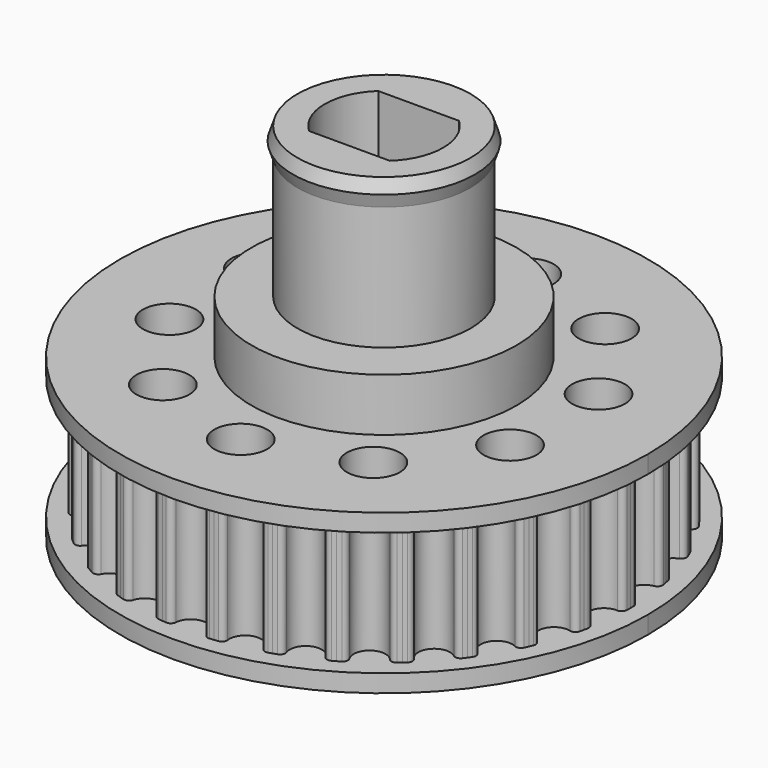
from build123d import *

# Parameters (mm, degrees)
F3_R     = 1.5
F3_R_2   = 7.5
F3_R_3   = 4.9
F4_DEPTH = 8
F5_DEPTH = 1
F7_DEPTH = 12
F8_DEPTH = 20.5


with BuildPart() as f4:
    # F3 (on Top) → F4 (new body)
    with BuildSketch(Plane.XY):
        with BuildLine():
            ThreePointArc((0.8978640127, 13.6109419175), (0.6140958725, 13.0149704588), (0, 12.7729113827))
            ThreePointArc((0, 12.7729113827), (-0.6140958725, 13.0149704588), (-0.8978640127, 13.6109419175))
            ThreePointArc((-0.8978640127, 13.6109419175), (-1.0022824589, 13.8183771987), (-1.2234767211, 13.8891282138))
            ThreePointArc((-1.2234767211, 13.8891282138), (-1.340501529, 13.8783224302), (-1.4574311003, 13.8665306553))
            ThreePointArc((-1.4574311003, 13.8665306553), (-1.5742571279, 13.8537537268), (-1.6909713116, 13.8399925524))
            ThreePointArc((-1.6909713116, 13.8399925524), (-1.8926219853, 13.7247987436), (-1.9516304178, 13.5001866054))
            ThreePointArc((-1.9516304178, 13.5001866054), (-2.6556376022, 12.4937926234), (-3.7081174775, 13.1268337553))
            ThreePointArc((-3.7081174775, 13.1268337553), (-3.8533823502, 13.3080262622), (-4.0844529502, 13.3312423249))
            ThreePointArc((-4.0844529502, 13.3312423249), (-4.1966738365, 13.2963418479), (-4.3085965683, 13.2604967267))
            ThreePointArc((-4.3085965683, 13.2604967267), (-4.4202131941, 13.2237095078), (-4.5315157839, 13.1859828048))
            ThreePointArc((-4.5315157839, 13.1859828048), (-4.7048097669, 13.0313807246), (-4.7158292342, 12.7994083575))
            ThreePointArc((-4.7158292342, 12.7994083575), (-5.1952110981, 11.6686351746), (-6.3563084151, 12.0690199685))
            ThreePointArc((-6.3563084151, 12.0690199685), (-6.5360709422, 12.2160507191), (-6.766918986, 12.1907171759))
            ThreePointArc((-6.766918986, 12.1907171759), (-6.8694313595, 12.1332473239), (-6.9714556914, 12.0749154602))
            ThreePointArc((-6.9714556914, 12.0749154602), (-7.0729847331, 12.0157257289), (-7.1740112717, 11.9556823352))
            ThreePointArc((-7.1740112717, 11.9556823352), (-7.3113747856, 11.7684288364), (-7.273923684, 11.539234546))
            ThreePointArc((-7.273923684, 11.539234546), (-7.5077289396, 10.3335023763), (-8.7266981739, 10.4837320955))
            ThreePointArc((-8.7266981739, 10.4837320955), (-8.9331018704, 10.5901751404), (-9.1536381909, 10.5173991889))
            ThreePointArc((-9.1536381909, 10.5173991889), (-9.241961769, 10.4398716701), (-9.3296287479, 10.3616024462))
            ThreePointArc((-9.3296287479, 10.3616024462), (-9.4166328994, 10.2825970778), (-9.5029680422, 10.2028611779))
            ThreePointArc((-9.5029680422, 10.2028611779), (-9.5983976422, 9.9911401369), (-9.5141127646, 9.7747408134))
            ThreePointArc((-9.5141127646, 9.7747408134), (-9.4921230004, 8.5467459385), (-10.7156893472, 8.4402548233))
            ThreePointArc((-10.7156893472, 8.4402548233), (-10.9397133812, 8.5014580908), (-11.1402994827, 8.3844203891))
            ThreePointArc((-11.1402994827, 8.3844203891), (-11.2105741012, 8.2902235282), (-11.2800522597, 8.1954376848))
            ThreePointArc((-11.2800522597, 8.1954376848), (-11.348729022, 8.100069593), (-11.416599509, 8.0041260283))
            ThreePointArc((-11.416599509, 8.0041260283), (-11.4659244637, 7.7771906705), (-11.3384894636, 7.5830440029))
            ThreePointArc((-11.3384894636, 7.5830440029), (-11.0616657377, 6.3864556914), (-12.2363534764, 6.0278979146))
            ThreePointArc((-12.2363534764, 6.0278979146), (-12.4682069226, 6.0411865282), (-12.6400762301, 5.8850021855))
            ThreePointArc((-12.6400762301, 5.8850021855), (-12.689230551, 5.7782528372), (-12.73748336, 5.6710929705))
            ThreePointArc((-12.73748336, 5.6710929705), (-12.7848312291, 5.5635301986), (-12.8312707944, 5.4555721632))
            ThreePointArc((-12.8312707944, 5.4555721632), (-12.8323353665, 5.2233406528), (-12.667319765, 5.059931782))
            ThreePointArc((-12.667319765, 5.059931782), (-12.1477606026, 3.9470466849), (-13.2222302422, 3.3520929419))
            ThreePointArc((-13.2222302422, 3.3520929419), (-13.4517799924, 3.3168861254), (-13.5874209924, 3.128381147))
            ThreePointArc((-13.5874209924, 3.128381147), (-13.613306736, 3.0137447701), (-13.6382253163, 2.8988942805))
            ThreePointArc((-13.6382253163, 2.8988942805), (-13.662174963, 2.7838378377), (-13.6851539747, 2.6685836159))
            ThreePointArc((-13.6851539747, 2.6685836159), (-13.6379116374, 2.4412055842), (-13.4425274081, 2.315676262))
            ThreePointArc((-13.4425274081, 2.315676262), (-12.7029400377, 1.3351327983), (-13.6302320991, 0.5297854225))
            ThreePointArc((-13.6302320991, 0.5297854225), (-13.8474457277, 0.4476218827), (-13.9409302577, 0.2350348407))
            ThreePointArc((-13.9409302577, 0.2350348407), (-13.9424160927, 0.117521595), (-13.9429113827, 0))
            ThreePointArc((-13.9429113827, 0), (-13.9424160927, -0.117521595), (-13.9409302577, -0.2350348407))
            ThreePointArc((-13.9409302577, -0.2350348407), (-13.8474457277, -0.4476218827), (-13.6302320991, -0.5297854225))
            ThreePointArc((-13.6302320991, -0.5297854225), (-12.7029400377, -1.3351327983), (-13.4425274081, -2.315676262))
            ThreePointArc((-13.4425274081, -2.315676262), (-13.6379116374, -2.4412055842), (-13.6851539747, -2.6685836159))
            ThreePointArc((-13.6851539747, -2.6685836159), (-13.662174963, -2.7838378377), (-13.6382253163, -2.8988942805))
            ThreePointArc((-13.6382253163, -2.8988942805), (-13.613306736, -3.0137447701), (-13.5874209924, -3.128381147))
            ThreePointArc((-13.5874209924, -3.128381147), (-13.4517799924, -3.3168861254), (-13.2222302422, -3.3520929419))
            ThreePointArc((-13.2222302422, -3.3520929419), (-12.1477606026, -3.9470466849), (-12.667319765, -5.059931782))
            ThreePointArc((-12.667319765, -5.059931782), (-12.8323353665, -5.2233406528), (-12.8312707944, -5.4555721632))
            ThreePointArc((-12.8312707944, -5.4555721632), (-12.7848312291, -5.5635301986), (-12.73748336, -5.6710929705))
            ThreePointArc((-12.73748336, -5.6710929705), (-12.689230551, -5.7782528372), (-12.6400762301, -5.8850021855))
            ThreePointArc((-12.6400762301, -5.8850021855), (-12.4682069226, -6.0411865282), (-12.2363534764, -6.0278979146))
            ThreePointArc((-12.2363534764, -6.0278979146), (-11.0616657377, -6.3864556914), (-11.3384894636, -7.5830440029))
            ThreePointArc((-11.3384894636, -7.5830440029), (-11.4659244637, -7.7771906705), (-11.416599509, -8.0041260283))
            ThreePointArc((-11.416599509, -8.0041260283), (-11.348729022, -8.100069593), (-11.2800522597, -8.1954376848))
            ThreePointArc((-11.2800522597, -8.1954376848), (-11.2105741012, -8.2902235282), (-11.1402994827, -8.3844203891))
            ThreePointArc((-11.1402994827, -8.3844203891), (-10.9397133812, -8.5014580908), (-10.7156893472, -8.4402548233))
            ThreePointArc((-10.7156893472, -8.4402548233), (-9.4921230004, -8.5467459385), (-9.5141127646, -9.7747408134))
            ThreePointArc((-9.5141127646, -9.7747408134), (-9.5983976422, -9.9911401369), (-9.5029680422, -10.2028611779))
            ThreePointArc((-9.5029680422, -10.2028611779), (-9.4166328994, -10.2825970778), (-9.3296287479, -10.3616024462))
            ThreePointArc((-9.3296287479, -10.3616024462), (-9.241961769, -10.4398716701), (-9.1536381909, -10.5173991889))
            ThreePointArc((-9.1536381909, -10.5173991889), (-8.9331018704, -10.5901751404), (-8.7266981739, -10.4837320955))
            ThreePointArc((-8.7266981739, -10.4837320955), (-7.5077289396, -10.3335023763), (-7.273923684, -11.539234546))
            ThreePointArc((-7.273923684, -11.539234546), (-7.3113747856, -11.7684288364), (-7.1740112717, -11.9556823352))
            ThreePointArc((-7.1740112717, -11.9556823352), (-7.0729847331, -12.0157257289), (-6.9714556914, -12.0749154602))
            ThreePointArc((-6.9714556914, -12.0749154602), (-6.8694313595, -12.1332473239), (-6.766918986, -12.1907171759))
            ThreePointArc((-6.766918986, -12.1907171759), (-6.5360709422, -12.2160507191), (-6.3563084151, -12.0690199685))
            ThreePointArc((-6.3563084151, -12.0690199685), (-5.1952110981, -11.6686351746), (-4.7158292342, -12.7994083575))
            ThreePointArc((-4.7158292342, -12.7994083575), (-4.7048097669, -13.0313807246), (-4.5315157839, -13.1859828048))
            ThreePointArc((-4.5315157839, -13.1859828048), (-4.4202131941, -13.2237095078), (-4.3085965683, -13.2604967267))
            ThreePointArc((-4.3085965683, -13.2604967267), (-4.1966738365, -13.2963418479), (-4.0844529502, -13.3312423249))
            ThreePointArc((-4.0844529502, -13.3312423249), (-3.8533823502, -13.3080262622), (-3.7081174775, -13.1268337553))
            ThreePointArc((-3.7081174775, -13.1268337553), (-2.6556376022, -12.4937926234), (-1.9516304178, -13.5001866054))
            ThreePointArc((-1.9516304178, -13.5001866054), (-1.8926219853, -13.7247987436), (-1.6909713116, -13.8399925524))
            ThreePointArc((-1.6909713116, -13.8399925524), (-1.5742571279, -13.8537537268), (-1.4574311003, -13.8665306553))
            ThreePointArc((-1.4574311003, -13.8665306553), (-1.340501529, -13.8783224302), (-1.2234767211, -13.8891282138))
            ThreePointArc((-1.2234767211, -13.8891282138), (-1.0022824589, -13.8183771987), (-0.8978640127, -13.6109419175))
            ThreePointArc((-0.8978640127, -13.6109419175), (0, -12.7729113827), (0.8978640127, -13.6109419175))
            ThreePointArc((0.8978640127, -13.6109419175), (1.0022824589, -13.8183771987), (1.2234767211, -13.8891282138))
            ThreePointArc((1.2234767211, -13.8891282138), (1.340501529, -13.8783224302), (1.4574311003, -13.8665306553))
            ThreePointArc((1.4574311003, -13.8665306553), (1.5742571279, -13.8537537268), (1.6909713116, -13.8399925524))
            ThreePointArc((1.6909713116, -13.8399925524), (1.8926219853, -13.7247987436), (1.9516304178, -13.5001866054))
            ThreePointArc((1.9516304178, -13.5001866054), (2.6556376022, -12.4937926234), (3.7081174775, -13.1268337553))
            ThreePointArc((3.7081174775, -13.1268337553), (3.8533823502, -13.3080262622), (4.0844529502, -13.3312423249))
            ThreePointArc((4.0844529502, -13.3312423249), (4.1966738365, -13.2963418479), (4.3085965683, -13.2604967267))
            ThreePointArc((4.3085965683, -13.2604967267), (4.4202131941, -13.2237095078), (4.5315157839, -13.1859828048))
            ThreePointArc((4.5315157839, -13.1859828048), (4.7048097669, -13.0313807246), (4.7158292342, -12.7994083575))
            ThreePointArc((4.7158292342, -12.7994083575), (5.1952110981, -11.6686351746), (6.3563084151, -12.0690199685))
            ThreePointArc((6.3563084151, -12.0690199685), (6.5360709422, -12.2160507191), (6.766918986, -12.1907171759))
            ThreePointArc((6.766918986, -12.1907171759), (6.8694313595, -12.1332473239), (6.9714556914, -12.0749154602))
            ThreePointArc((6.9714556914, -12.0749154602), (7.0729847331, -12.0157257289), (7.1740112717, -11.9556823352))
            ThreePointArc((7.1740112717, -11.9556823352), (7.3113747856, -11.7684288364), (7.273923684, -11.539234546))
            ThreePointArc((7.273923684, -11.539234546), (7.5077289396, -10.3335023763), (8.7266981739, -10.4837320955))
            ThreePointArc((8.7266981739, -10.4837320955), (8.9331018704, -10.5901751404), (9.1536381909, -10.5173991889))
            ThreePointArc((9.1536381909, -10.5173991889), (9.241961769, -10.4398716701), (9.3296287479, -10.3616024462))
            ThreePointArc((9.3296287479, -10.3616024462), (9.4166328994, -10.2825970778), (9.5029680422, -10.2028611779))
            ThreePointArc((9.5029680422, -10.2028611779), (9.5983976422, -9.9911401369), (9.5141127646, -9.7747408134))
            ThreePointArc((9.5141127646, -9.7747408134), (9.4921230004, -8.5467459385), (10.7156893472, -8.4402548233))
            ThreePointArc((10.7156893472, -8.4402548233), (10.9397133812, -8.5014580908), (11.1402994827, -8.3844203891))
            ThreePointArc((11.1402994827, -8.3844203891), (11.2105741012, -8.2902235282), (11.2800522597, -8.1954376848))
            ThreePointArc((11.2800522597, -8.1954376848), (11.348729022, -8.100069593), (11.416599509, -8.0041260283))
            ThreePointArc((11.416599509, -8.0041260283), (11.4659244637, -7.7771906705), (11.3384894636, -7.5830440029))
            ThreePointArc((11.3384894636, -7.5830440029), (11.0616657377, -6.3864556914), (12.2363534764, -6.0278979146))
            ThreePointArc((12.2363534764, -6.0278979146), (12.4682069226, -6.0411865282), (12.6400762301, -5.8850021855))
            ThreePointArc((12.6400762301, -5.8850021855), (12.689230551, -5.7782528372), (12.73748336, -5.6710929705))
            ThreePointArc((12.73748336, -5.6710929705), (12.7848312291, -5.5635301986), (12.8312707944, -5.4555721632))
            ThreePointArc((12.8312707944, -5.4555721632), (12.8323353665, -5.2233406528), (12.667319765, -5.059931782))
            ThreePointArc((12.667319765, -5.059931782), (12.1477606026, -3.9470466849), (13.2222302422, -3.3520929419))
            ThreePointArc((13.2222302422, -3.3520929419), (13.4517799924, -3.3168861254), (13.5874209924, -3.128381147))
            ThreePointArc((13.5874209924, -3.128381147), (13.613306736, -3.0137447701), (13.6382253163, -2.8988942805))
            ThreePointArc((13.6382253163, -2.8988942805), (13.662174963, -2.7838378377), (13.6851539747, -2.6685836159))
            ThreePointArc((13.6851539747, -2.6685836159), (13.6379116374, -2.4412055842), (13.4425274081, -2.315676262))
            ThreePointArc((13.4425274081, -2.315676262), (12.7029400377, -1.3351327983), (13.6302320991, -0.5297854225))
            ThreePointArc((13.6302320991, -0.5297854225), (13.8474457277, -0.4476218827), (13.9409302577, -0.2350348407))
            ThreePointArc((13.9409302577, -0.2350348407), (13.9424160927, -0.117521595), (13.9429113827, 0))
            ThreePointArc((13.9429113827, 0), (13.9424160927, 0.117521595), (13.9409302577, 0.2350348407))
            ThreePointArc((13.9409302577, 0.2350348407), (13.8474457277, 0.4476218827), (13.6302320991, 0.5297854225))
            ThreePointArc((13.6302320991, 0.5297854225), (12.7029400377, 1.3351327983), (13.4425274081, 2.315676262))
            ThreePointArc((13.4425274081, 2.315676262), (13.6379116374, 2.4412055842), (13.6851539747, 2.6685836159))
            ThreePointArc((13.6851539747, 2.6685836159), (13.662174963, 2.7838378377), (13.6382253163, 2.8988942805))
            ThreePointArc((13.6382253163, 2.8988942805), (13.613306736, 3.0137447701), (13.5874209924, 3.128381147))
            ThreePointArc((13.5874209924, 3.128381147), (13.4517799924, 3.3168861254), (13.2222302422, 3.3520929419))
            ThreePointArc((13.2222302422, 3.3520929419), (12.1477606026, 3.9470466849), (12.667319765, 5.059931782))
            ThreePointArc((12.667319765, 5.059931782), (12.8323353665, 5.2233406528), (12.8312707944, 5.4555721632))
            ThreePointArc((12.8312707944, 5.4555721632), (12.7848312291, 5.5635301986), (12.73748336, 5.6710929705))
            ThreePointArc((12.73748336, 5.6710929705), (12.689230551, 5.7782528372), (12.6400762301, 5.8850021855))
            ThreePointArc((12.6400762301, 5.8850021855), (12.4682069226, 6.0411865282), (12.2363534764, 6.0278979146))
            ThreePointArc((12.2363534764, 6.0278979146), (11.0616657377, 6.3864556914), (11.3384894636, 7.5830440029))
            ThreePointArc((11.3384894636, 7.5830440029), (11.4659244637, 7.7771906705), (11.416599509, 8.0041260283))
            ThreePointArc((11.416599509, 8.0041260283), (11.348729022, 8.100069593), (11.2800522597, 8.1954376848))
            ThreePointArc((11.2800522597, 8.1954376848), (11.2105741012, 8.2902235282), (11.1402994827, 8.3844203891))
            ThreePointArc((11.1402994827, 8.3844203891), (10.9397133812, 8.5014580908), (10.7156893472, 8.4402548233))
            ThreePointArc((10.7156893472, 8.4402548233), (9.4921230004, 8.5467459385), (9.5141127646, 9.7747408134))
            ThreePointArc((9.5141127646, 9.7747408134), (9.5983976422, 9.9911401369), (9.5029680422, 10.2028611779))
            ThreePointArc((9.5029680422, 10.2028611779), (9.4166328994, 10.2825970778), (9.3296287479, 10.3616024462))
            ThreePointArc((9.3296287479, 10.3616024462), (9.241961769, 10.4398716701), (9.1536381909, 10.5173991889))
            ThreePointArc((9.1536381909, 10.5173991889), (8.9331018704, 10.5901751404), (8.7266981739, 10.4837320955))
            ThreePointArc((8.7266981739, 10.4837320955), (7.5077289396, 10.3335023763), (7.273923684, 11.539234546))
            ThreePointArc((7.273923684, 11.539234546), (7.3113747856, 11.7684288364), (7.1740112717, 11.9556823352))
            ThreePointArc((7.1740112717, 11.9556823352), (7.0729847331, 12.0157257289), (6.9714556914, 12.0749154602))
            ThreePointArc((6.9714556914, 12.0749154602), (6.8694313595, 12.1332473239), (6.766918986, 12.1907171759))
            ThreePointArc((6.766918986, 12.1907171759), (6.5360709422, 12.2160507191), (6.3563084151, 12.0690199685))
            ThreePointArc((6.3563084151, 12.0690199685), (5.1952110981, 11.6686351746), (4.7158292342, 12.7994083575))
            ThreePointArc((4.7158292342, 12.7994083575), (4.7048097669, 13.0313807246), (4.5315157839, 13.1859828048))
            ThreePointArc((4.5315157839, 13.1859828048), (4.4202131941, 13.2237095078), (4.3085965683, 13.2604967267))
            ThreePointArc((4.3085965683, 13.2604967267), (4.1966738365, 13.2963418479), (4.0844529502, 13.3312423249))
            ThreePointArc((4.0844529502, 13.3312423249), (3.8533823502, 13.3080262622), (3.7081174775, 13.1268337553))
            ThreePointArc((3.7081174775, 13.1268337553), (2.6556376022, 12.4937926234), (1.9516304178, 13.5001866054))
            ThreePointArc((1.9516304178, 13.5001866054), (1.8926219853, 13.7247987436), (1.6909713116, 13.8399925524))
            ThreePointArc((1.6909713116, 13.8399925524), (1.5742571279, 13.8537537268), (1.4574311003, 13.8665306553))
            ThreePointArc((1.4574311003, 13.8665306553), (1.340501529, 13.8783224302), (1.2234767211, 13.8891282138))
            ThreePointArc((1.2234767211, 13.8891282138), (1.0022824589, 13.8183771987), (0.8978640127, 13.6109419175))
        make_face()
        with Locations((-5.9580591659, -8.200564917)):
            Circle(F3_R, mode=Mode.SUBTRACT)
        with Locations((-9.6403422374, -3.1323370714)):
            Circle(F3_R, mode=Mode.SUBTRACT)
        with Locations((0, -10.1364556914)):
            Circle(F3_R, mode=Mode.SUBTRACT)
        with Locations((5.9580591659, -8.200564917)):
            Circle(F3_R, mode=Mode.SUBTRACT)
        with Locations((9.6403422374, -3.1323370714)):
            Circle(F3_R, mode=Mode.SUBTRACT)
        with Locations((-9.6403422374, 3.1323370714)):
            Circle(F3_R, mode=Mode.SUBTRACT)
        with Locations((-5.9580591659, 8.200564917)):
            Circle(F3_R, mode=Mode.SUBTRACT)
        Circle(F3_R_2, mode=Mode.SUBTRACT)
        with Locations((9.6403422374, 3.1323370714)):
            Circle(F3_R, mode=Mode.SUBTRACT)
        with Locations((0, 10.1364556914)):
            Circle(F3_R, mode=Mode.SUBTRACT)
        with Locations((5.9580591659, 8.200564917)):
            Circle(F3_R, mode=Mode.SUBTRACT)
        Circle(F3_R_2)
        Circle(F3_R_3, mode=Mode.SUBTRACT)
        Circle(F3_R_3)
        with BuildLine():
            ThreePointArc((-2.2847319318, -2.45), (-3.35, 0), (-2.2847319318, 2.45))
            Line((-2.2847319318, 2.45), (2.2847319318, 2.45))
            ThreePointArc((2.2847319318, 2.45), (3.35, 0), (2.2847319318, -2.45))
            Line((2.2847319318, -2.45), (-2.2847319318, -2.45))
        make_face(mode=Mode.SUBTRACT)
    extrude(amount=F4_DEPTH)



with BuildPart() as f5:
    # F3 (on Top) → F5 (new body)
    with BuildSketch(Plane.XY):
        with BuildLine():
            ThreePointArc((0, 14.9429113827), (-10.5662339694, -10.5662339694), (14.9429113827, 0))
            ThreePointArc((14.9429113827, 0), (10.5662339694, 10.5662339694), (0, 14.9429113827))
        make_face()
        with BuildLine():
            ThreePointArc((-0.8978640127, 13.6109419175), (-0.6140958725, 13.0149704588), (0, 12.7729113827))
            ThreePointArc((0, 12.7729113827), (0.6140958725, 13.0149704588), (0.8978640127, 13.6109419175))
            ThreePointArc((0.8978640127, 13.6109419175), (1.0022824589, 13.8183771987), (1.2234767211, 13.8891282138))
            ThreePointArc((1.2234767211, 13.8891282138), (1.340501529, 13.8783224302), (1.4574311003, 13.8665306553))
            ThreePointArc((1.4574311003, 13.8665306553), (1.5742571279, 13.8537537268), (1.6909713116, 13.8399925524))
            ThreePointArc((1.6909713116, 13.8399925524), (1.8926219853, 13.7247987436), (1.9516304178, 13.5001866054))
            ThreePointArc((1.9516304178, 13.5001866054), (2.6556376022, 12.4937926234), (3.7081174775, 13.1268337553))
            ThreePointArc((3.7081174775, 13.1268337553), (3.8533823502, 13.3080262622), (4.0844529502, 13.3312423249))
            ThreePointArc((4.0844529502, 13.3312423249), (4.1966738365, 13.2963418479), (4.3085965683, 13.2604967267))
            ThreePointArc((4.3085965683, 13.2604967267), (4.4202131941, 13.2237095078), (4.5315157839, 13.1859828048))
            ThreePointArc((4.5315157839, 13.1859828048), (4.7048097669, 13.0313807246), (4.7158292342, 12.7994083575))
            ThreePointArc((4.7158292342, 12.7994083575), (5.1952110981, 11.6686351746), (6.3563084151, 12.0690199685))
            ThreePointArc((6.3563084151, 12.0690199685), (6.5360709422, 12.2160507191), (6.766918986, 12.1907171759))
            ThreePointArc((6.766918986, 12.1907171759), (6.8694313595, 12.1332473239), (6.9714556914, 12.0749154602))
            ThreePointArc((6.9714556914, 12.0749154602), (7.0729847331, 12.0157257289), (7.1740112717, 11.9556823352))
            ThreePointArc((7.1740112717, 11.9556823352), (7.3113747856, 11.7684288364), (7.273923684, 11.539234546))
            ThreePointArc((7.273923684, 11.539234546), (7.5077289396, 10.3335023763), (8.7266981739, 10.4837320955))
            ThreePointArc((8.7266981739, 10.4837320955), (8.9331018704, 10.5901751404), (9.1536381909, 10.5173991889))
            ThreePointArc((9.1536381909, 10.5173991889), (9.241961769, 10.4398716701), (9.3296287479, 10.3616024462))
            ThreePointArc((9.3296287479, 10.3616024462), (9.4166328994, 10.2825970778), (9.5029680422, 10.2028611779))
            ThreePointArc((9.5029680422, 10.2028611779), (9.5983976422, 9.9911401369), (9.5141127646, 9.7747408134))
            ThreePointArc((9.5141127646, 9.7747408134), (9.4921230004, 8.5467459385), (10.7156893472, 8.4402548233))
            ThreePointArc((10.7156893472, 8.4402548233), (10.9397133812, 8.5014580908), (11.1402994827, 8.3844203891))
            ThreePointArc((11.1402994827, 8.3844203891), (11.2105741012, 8.2902235282), (11.2800522597, 8.1954376848))
            ThreePointArc((11.2800522597, 8.1954376848), (11.348729022, 8.100069593), (11.416599509, 8.0041260283))
            ThreePointArc((11.416599509, 8.0041260283), (11.4659244637, 7.7771906705), (11.3384894636, 7.5830440029))
            ThreePointArc((11.3384894636, 7.5830440029), (11.0616657377, 6.3864556914), (12.2363534764, 6.0278979146))
            ThreePointArc((12.2363534764, 6.0278979146), (12.4682069226, 6.0411865282), (12.6400762301, 5.8850021855))
            ThreePointArc((12.6400762301, 5.8850021855), (12.689230551, 5.7782528372), (12.73748336, 5.6710929705))
            ThreePointArc((12.73748336, 5.6710929705), (12.7848312291, 5.5635301986), (12.8312707944, 5.4555721632))
            ThreePointArc((12.8312707944, 5.4555721632), (12.8323353665, 5.2233406528), (12.667319765, 5.059931782))
            ThreePointArc((12.667319765, 5.059931782), (12.1477606026, 3.9470466849), (13.2222302422, 3.3520929419))
            ThreePointArc((13.2222302422, 3.3520929419), (13.4517799924, 3.3168861254), (13.5874209924, 3.128381147))
            ThreePointArc((13.5874209924, 3.128381147), (13.613306736, 3.0137447701), (13.6382253163, 2.8988942805))
            ThreePointArc((13.6382253163, 2.8988942805), (13.662174963, 2.7838378377), (13.6851539747, 2.6685836159))
            ThreePointArc((13.6851539747, 2.6685836159), (13.6379116374, 2.4412055842), (13.4425274081, 2.315676262))
            ThreePointArc((13.4425274081, 2.315676262), (12.7029400377, 1.3351327983), (13.6302320991, 0.5297854225))
            ThreePointArc((13.6302320991, 0.5297854225), (13.8474457277, 0.4476218827), (13.9409302577, 0.2350348407))
            ThreePointArc((13.9409302577, 0.2350348407), (13.9424160927, 0.117521595), (13.9429113827, 0))
            ThreePointArc((13.9429113827, 0), (13.9424160927, -0.117521595), (13.9409302577, -0.2350348407))
            ThreePointArc((13.9409302577, -0.2350348407), (13.8474457277, -0.4476218827), (13.6302320991, -0.5297854225))
            ThreePointArc((13.6302320991, -0.5297854225), (12.7029400377, -1.3351327983), (13.4425274081, -2.315676262))
            ThreePointArc((13.4425274081, -2.315676262), (13.6379116374, -2.4412055842), (13.6851539747, -2.6685836159))
            ThreePointArc((13.6851539747, -2.6685836159), (13.662174963, -2.7838378377), (13.6382253163, -2.8988942805))
            ThreePointArc((13.6382253163, -2.8988942805), (13.613306736, -3.0137447701), (13.5874209924, -3.128381147))
            ThreePointArc((13.5874209924, -3.128381147), (13.4517799924, -3.3168861254), (13.2222302422, -3.3520929419))
            ThreePointArc((13.2222302422, -3.3520929419), (12.1477606026, -3.9470466849), (12.667319765, -5.059931782))
            ThreePointArc((12.667319765, -5.059931782), (12.8323353665, -5.2233406528), (12.8312707944, -5.4555721632))
            ThreePointArc((12.8312707944, -5.4555721632), (12.7848312291, -5.5635301986), (12.73748336, -5.6710929705))
            ThreePointArc((12.73748336, -5.6710929705), (12.689230551, -5.7782528372), (12.6400762301, -5.8850021855))
            ThreePointArc((12.6400762301, -5.8850021855), (12.4682069226, -6.0411865282), (12.2363534764, -6.0278979146))
            ThreePointArc((12.2363534764, -6.0278979146), (11.0616657377, -6.3864556914), (11.3384894636, -7.5830440029))
            ThreePointArc((11.3384894636, -7.5830440029), (11.4659244637, -7.7771906705), (11.416599509, -8.0041260283))
            ThreePointArc((11.416599509, -8.0041260283), (11.348729022, -8.100069593), (11.2800522597, -8.1954376848))
            ThreePointArc((11.2800522597, -8.1954376848), (11.2105741012, -8.2902235282), (11.1402994827, -8.3844203891))
            ThreePointArc((11.1402994827, -8.3844203891), (10.9397133812, -8.5014580908), (10.7156893472, -8.4402548233))
            ThreePointArc((10.7156893472, -8.4402548233), (9.4921230004, -8.5467459385), (9.5141127646, -9.7747408134))
            ThreePointArc((9.5141127646, -9.7747408134), (9.5983976422, -9.9911401369), (9.5029680422, -10.2028611779))
            ThreePointArc((9.5029680422, -10.2028611779), (9.4166328994, -10.2825970778), (9.3296287479, -10.3616024462))
            ThreePointArc((9.3296287479, -10.3616024462), (9.241961769, -10.4398716701), (9.1536381909, -10.5173991889))
            ThreePointArc((9.1536381909, -10.5173991889), (8.9331018704, -10.5901751404), (8.7266981739, -10.4837320955))
            ThreePointArc((8.7266981739, -10.4837320955), (7.5077289396, -10.3335023763), (7.273923684, -11.539234546))
            ThreePointArc((7.273923684, -11.539234546), (7.3113747856, -11.7684288364), (7.1740112717, -11.9556823352))
            ThreePointArc((7.1740112717, -11.9556823352), (7.0729847331, -12.0157257289), (6.9714556914, -12.0749154602))
            ThreePointArc((6.9714556914, -12.0749154602), (6.8694313595, -12.1332473239), (6.766918986, -12.1907171759))
            ThreePointArc((6.766918986, -12.1907171759), (6.5360709422, -12.2160507191), (6.3563084151, -12.0690199685))
            ThreePointArc((6.3563084151, -12.0690199685), (5.1952110981, -11.6686351746), (4.7158292342, -12.7994083575))
            ThreePointArc((4.7158292342, -12.7994083575), (4.7048097669, -13.0313807246), (4.5315157839, -13.1859828048))
            ThreePointArc((4.5315157839, -13.1859828048), (4.4202131941, -13.2237095078), (4.3085965683, -13.2604967267))
            ThreePointArc((4.3085965683, -13.2604967267), (4.1966738365, -13.2963418479), (4.0844529502, -13.3312423249))
            ThreePointArc((4.0844529502, -13.3312423249), (3.8533823502, -13.3080262622), (3.7081174775, -13.1268337553))
            ThreePointArc((3.7081174775, -13.1268337553), (2.6556376022, -12.4937926234), (1.9516304178, -13.5001866054))
            ThreePointArc((1.9516304178, -13.5001866054), (1.8926219853, -13.7247987436), (1.6909713116, -13.8399925524))
            ThreePointArc((1.6909713116, -13.8399925524), (1.5742571279, -13.8537537268), (1.4574311003, -13.8665306553))
            ThreePointArc((1.4574311003, -13.8665306553), (1.340501529, -13.8783224302), (1.2234767211, -13.8891282138))
            ThreePointArc((1.2234767211, -13.8891282138), (1.0022824589, -13.8183771987), (0.8978640127, -13.6109419175))
            ThreePointArc((0.8978640127, -13.6109419175), (0, -12.7729113827), (-0.8978640127, -13.6109419175))
            ThreePointArc((-0.8978640127, -13.6109419175), (-1.0022824589, -13.8183771987), (-1.2234767211, -13.8891282138))
            ThreePointArc((-1.2234767211, -13.8891282138), (-1.340501529, -13.8783224302), (-1.4574311003, -13.8665306553))
            ThreePointArc((-1.4574311003, -13.8665306553), (-1.5742571279, -13.8537537268), (-1.6909713116, -13.8399925524))
            ThreePointArc((-1.6909713116, -13.8399925524), (-1.8926219853, -13.7247987436), (-1.9516304178, -13.5001866054))
            ThreePointArc((-1.9516304178, -13.5001866054), (-2.6556376022, -12.4937926234), (-3.7081174775, -13.1268337553))
            ThreePointArc((-3.7081174775, -13.1268337553), (-3.8533823502, -13.3080262622), (-4.0844529502, -13.3312423249))
            ThreePointArc((-4.0844529502, -13.3312423249), (-4.1966738365, -13.2963418479), (-4.3085965683, -13.2604967267))
            ThreePointArc((-4.3085965683, -13.2604967267), (-4.4202131941, -13.2237095078), (-4.5315157839, -13.1859828048))
            ThreePointArc((-4.5315157839, -13.1859828048), (-4.7048097669, -13.0313807246), (-4.7158292342, -12.7994083575))
            ThreePointArc((-4.7158292342, -12.7994083575), (-5.1952110981, -11.6686351746), (-6.3563084151, -12.0690199685))
            ThreePointArc((-6.3563084151, -12.0690199685), (-6.5360709422, -12.2160507191), (-6.766918986, -12.1907171759))
            ThreePointArc((-6.766918986, -12.1907171759), (-6.8694313595, -12.1332473239), (-6.9714556914, -12.0749154602))
            ThreePointArc((-6.9714556914, -12.0749154602), (-7.0729847331, -12.0157257289), (-7.1740112717, -11.9556823352))
            ThreePointArc((-7.1740112717, -11.9556823352), (-7.3113747856, -11.7684288364), (-7.273923684, -11.539234546))
            ThreePointArc((-7.273923684, -11.539234546), (-7.5077289396, -10.3335023763), (-8.7266981739, -10.4837320955))
            ThreePointArc((-8.7266981739, -10.4837320955), (-8.9331018704, -10.5901751404), (-9.1536381909, -10.5173991889))
            ThreePointArc((-9.1536381909, -10.5173991889), (-9.241961769, -10.4398716701), (-9.3296287479, -10.3616024462))
            ThreePointArc((-9.3296287479, -10.3616024462), (-9.4166328994, -10.2825970778), (-9.5029680422, -10.2028611779))
            ThreePointArc((-9.5029680422, -10.2028611779), (-9.5983976422, -9.9911401369), (-9.5141127646, -9.7747408134))
            ThreePointArc((-9.5141127646, -9.7747408134), (-9.4921230004, -8.5467459385), (-10.7156893472, -8.4402548233))
            ThreePointArc((-10.7156893472, -8.4402548233), (-10.9397133812, -8.5014580908), (-11.1402994827, -8.3844203891))
            ThreePointArc((-11.1402994827, -8.3844203891), (-11.2105741012, -8.2902235282), (-11.2800522597, -8.1954376848))
            ThreePointArc((-11.2800522597, -8.1954376848), (-11.348729022, -8.100069593), (-11.416599509, -8.0041260283))
            ThreePointArc((-11.416599509, -8.0041260283), (-11.4659244637, -7.7771906705), (-11.3384894636, -7.5830440029))
            ThreePointArc((-11.3384894636, -7.5830440029), (-11.0616657377, -6.3864556914), (-12.2363534764, -6.0278979146))
            ThreePointArc((-12.2363534764, -6.0278979146), (-12.4682069226, -6.0411865282), (-12.6400762301, -5.8850021855))
            ThreePointArc((-12.6400762301, -5.8850021855), (-12.689230551, -5.7782528372), (-12.73748336, -5.6710929705))
            ThreePointArc((-12.73748336, -5.6710929705), (-12.7848312291, -5.5635301986), (-12.8312707944, -5.4555721632))
            ThreePointArc((-12.8312707944, -5.4555721632), (-12.8323353665, -5.2233406528), (-12.667319765, -5.059931782))
            ThreePointArc((-12.667319765, -5.059931782), (-12.1477606026, -3.9470466849), (-13.2222302422, -3.3520929419))
            ThreePointArc((-13.2222302422, -3.3520929419), (-13.4517799924, -3.3168861254), (-13.5874209924, -3.128381147))
            ThreePointArc((-13.5874209924, -3.128381147), (-13.613306736, -3.0137447701), (-13.6382253163, -2.8988942805))
            ThreePointArc((-13.6382253163, -2.8988942805), (-13.662174963, -2.7838378377), (-13.6851539747, -2.6685836159))
            ThreePointArc((-13.6851539747, -2.6685836159), (-13.6379116374, -2.4412055842), (-13.4425274081, -2.315676262))
            ThreePointArc((-13.4425274081, -2.315676262), (-12.7029400377, -1.3351327983), (-13.6302320991, -0.5297854225))
            ThreePointArc((-13.6302320991, -0.5297854225), (-13.8474457277, -0.4476218827), (-13.9409302577, -0.2350348407))
            ThreePointArc((-13.9409302577, -0.2350348407), (-13.9424160927, -0.117521595), (-13.9429113827, 0))
            ThreePointArc((-13.9429113827, 0), (-13.9424160927, 0.117521595), (-13.9409302577, 0.2350348407))
            ThreePointArc((-13.9409302577, 0.2350348407), (-13.8474457277, 0.4476218827), (-13.6302320991, 0.5297854225))
            ThreePointArc((-13.6302320991, 0.5297854225), (-12.7029400377, 1.3351327983), (-13.4425274081, 2.315676262))
            ThreePointArc((-13.4425274081, 2.315676262), (-13.6379116374, 2.4412055842), (-13.6851539747, 2.6685836159))
            ThreePointArc((-13.6851539747, 2.6685836159), (-13.662174963, 2.7838378377), (-13.6382253163, 2.8988942805))
            ThreePointArc((-13.6382253163, 2.8988942805), (-13.613306736, 3.0137447701), (-13.5874209924, 3.128381147))
            ThreePointArc((-13.5874209924, 3.128381147), (-13.4517799924, 3.3168861254), (-13.2222302422, 3.3520929419))
            ThreePointArc((-13.2222302422, 3.3520929419), (-12.1477606026, 3.9470466849), (-12.667319765, 5.059931782))
            ThreePointArc((-12.667319765, 5.059931782), (-12.8323353665, 5.2233406528), (-12.8312707944, 5.4555721632))
            ThreePointArc((-12.8312707944, 5.4555721632), (-12.7848312291, 5.5635301986), (-12.73748336, 5.6710929705))
            ThreePointArc((-12.73748336, 5.6710929705), (-12.689230551, 5.7782528372), (-12.6400762301, 5.8850021855))
            ThreePointArc((-12.6400762301, 5.8850021855), (-12.4682069226, 6.0411865282), (-12.2363534764, 6.0278979146))
            ThreePointArc((-12.2363534764, 6.0278979146), (-11.0616657377, 6.3864556914), (-11.3384894636, 7.5830440029))
            ThreePointArc((-11.3384894636, 7.5830440029), (-11.4659244637, 7.7771906705), (-11.416599509, 8.0041260283))
            ThreePointArc((-11.416599509, 8.0041260283), (-11.348729022, 8.100069593), (-11.2800522597, 8.1954376848))
            ThreePointArc((-11.2800522597, 8.1954376848), (-11.2105741012, 8.2902235282), (-11.1402994827, 8.3844203891))
            ThreePointArc((-11.1402994827, 8.3844203891), (-10.9397133812, 8.5014580908), (-10.7156893472, 8.4402548233))
            ThreePointArc((-10.7156893472, 8.4402548233), (-9.4921230004, 8.5467459385), (-9.5141127646, 9.7747408134))
            ThreePointArc((-9.5141127646, 9.7747408134), (-9.5983976422, 9.9911401369), (-9.5029680422, 10.2028611779))
            ThreePointArc((-9.5029680422, 10.2028611779), (-9.4166328994, 10.2825970778), (-9.3296287479, 10.3616024462))
            ThreePointArc((-9.3296287479, 10.3616024462), (-9.241961769, 10.4398716701), (-9.1536381909, 10.5173991889))
            ThreePointArc((-9.1536381909, 10.5173991889), (-8.9331018704, 10.5901751404), (-8.7266981739, 10.4837320955))
            ThreePointArc((-8.7266981739, 10.4837320955), (-7.5077289396, 10.3335023763), (-7.273923684, 11.539234546))
            ThreePointArc((-7.273923684, 11.539234546), (-7.3113747856, 11.7684288364), (-7.1740112717, 11.9556823352))
            ThreePointArc((-7.1740112717, 11.9556823352), (-7.0729847331, 12.0157257289), (-6.9714556914, 12.0749154602))
            ThreePointArc((-6.9714556914, 12.0749154602), (-6.8694313595, 12.1332473239), (-6.766918986, 12.1907171759))
            ThreePointArc((-6.766918986, 12.1907171759), (-6.5360709422, 12.2160507191), (-6.3563084151, 12.0690199685))
            ThreePointArc((-6.3563084151, 12.0690199685), (-5.1952110981, 11.6686351746), (-4.7158292342, 12.7994083575))
            ThreePointArc((-4.7158292342, 12.7994083575), (-4.7048097669, 13.0313807246), (-4.5315157839, 13.1859828048))
            ThreePointArc((-4.5315157839, 13.1859828048), (-4.4202131941, 13.2237095078), (-4.3085965683, 13.2604967267))
            ThreePointArc((-4.3085965683, 13.2604967267), (-4.1966738365, 13.2963418479), (-4.0844529502, 13.3312423249))
            ThreePointArc((-4.0844529502, 13.3312423249), (-3.8533823502, 13.3080262622), (-3.7081174775, 13.1268337553))
            ThreePointArc((-3.7081174775, 13.1268337553), (-2.6556376022, 12.4937926234), (-1.9516304178, 13.5001866054))
            ThreePointArc((-1.9516304178, 13.5001866054), (-1.8926219853, 13.7247987436), (-1.6909713116, 13.8399925524))
            ThreePointArc((-1.6909713116, 13.8399925524), (-1.5742571279, 13.8537537268), (-1.4574311003, 13.8665306553))
            ThreePointArc((-1.4574311003, 13.8665306553), (-1.340501529, 13.8783224302), (-1.2234767211, 13.8891282138))
            ThreePointArc((-1.2234767211, 13.8891282138), (-1.0022824589, 13.8183771987), (-0.8978640127, 13.6109419175))
        make_face(mode=Mode.SUBTRACT)
        with BuildLine():
            ThreePointArc((0.8978640127, 13.6109419175), (0.6140958725, 13.0149704588), (0, 12.7729113827))
            ThreePointArc((0, 12.7729113827), (-0.6140958725, 13.0149704588), (-0.8978640127, 13.6109419175))
            ThreePointArc((-0.8978640127, 13.6109419175), (-1.0022824589, 13.8183771987), (-1.2234767211, 13.8891282138))
            ThreePointArc((-1.2234767211, 13.8891282138), (-1.340501529, 13.8783224302), (-1.4574311003, 13.8665306553))
            ThreePointArc((-1.4574311003, 13.8665306553), (-1.5742571279, 13.8537537268), (-1.6909713116, 13.8399925524))
            ThreePointArc((-1.6909713116, 13.8399925524), (-1.8926219853, 13.7247987436), (-1.9516304178, 13.5001866054))
            ThreePointArc((-1.9516304178, 13.5001866054), (-2.6556376022, 12.4937926234), (-3.7081174775, 13.1268337553))
            ThreePointArc((-3.7081174775, 13.1268337553), (-3.8533823502, 13.3080262622), (-4.0844529502, 13.3312423249))
            ThreePointArc((-4.0844529502, 13.3312423249), (-4.1966738365, 13.2963418479), (-4.3085965683, 13.2604967267))
            ThreePointArc((-4.3085965683, 13.2604967267), (-4.4202131941, 13.2237095078), (-4.5315157839, 13.1859828048))
            ThreePointArc((-4.5315157839, 13.1859828048), (-4.7048097669, 13.0313807246), (-4.7158292342, 12.7994083575))
            ThreePointArc((-4.7158292342, 12.7994083575), (-5.1952110981, 11.6686351746), (-6.3563084151, 12.0690199685))
            ThreePointArc((-6.3563084151, 12.0690199685), (-6.5360709422, 12.2160507191), (-6.766918986, 12.1907171759))
            ThreePointArc((-6.766918986, 12.1907171759), (-6.8694313595, 12.1332473239), (-6.9714556914, 12.0749154602))
            ThreePointArc((-6.9714556914, 12.0749154602), (-7.0729847331, 12.0157257289), (-7.1740112717, 11.9556823352))
            ThreePointArc((-7.1740112717, 11.9556823352), (-7.3113747856, 11.7684288364), (-7.273923684, 11.539234546))
            ThreePointArc((-7.273923684, 11.539234546), (-7.5077289396, 10.3335023763), (-8.7266981739, 10.4837320955))
            ThreePointArc((-8.7266981739, 10.4837320955), (-8.9331018704, 10.5901751404), (-9.1536381909, 10.5173991889))
            ThreePointArc((-9.1536381909, 10.5173991889), (-9.241961769, 10.4398716701), (-9.3296287479, 10.3616024462))
            ThreePointArc((-9.3296287479, 10.3616024462), (-9.4166328994, 10.2825970778), (-9.5029680422, 10.2028611779))
            ThreePointArc((-9.5029680422, 10.2028611779), (-9.5983976422, 9.9911401369), (-9.5141127646, 9.7747408134))
            ThreePointArc((-9.5141127646, 9.7747408134), (-9.4921230004, 8.5467459385), (-10.7156893472, 8.4402548233))
            ThreePointArc((-10.7156893472, 8.4402548233), (-10.9397133812, 8.5014580908), (-11.1402994827, 8.3844203891))
            ThreePointArc((-11.1402994827, 8.3844203891), (-11.2105741012, 8.2902235282), (-11.2800522597, 8.1954376848))
            ThreePointArc((-11.2800522597, 8.1954376848), (-11.348729022, 8.100069593), (-11.416599509, 8.0041260283))
            ThreePointArc((-11.416599509, 8.0041260283), (-11.4659244637, 7.7771906705), (-11.3384894636, 7.5830440029))
            ThreePointArc((-11.3384894636, 7.5830440029), (-11.0616657377, 6.3864556914), (-12.2363534764, 6.0278979146))
            ThreePointArc((-12.2363534764, 6.0278979146), (-12.4682069226, 6.0411865282), (-12.6400762301, 5.8850021855))
            ThreePointArc((-12.6400762301, 5.8850021855), (-12.689230551, 5.7782528372), (-12.73748336, 5.6710929705))
            ThreePointArc((-12.73748336, 5.6710929705), (-12.7848312291, 5.5635301986), (-12.8312707944, 5.4555721632))
            ThreePointArc((-12.8312707944, 5.4555721632), (-12.8323353665, 5.2233406528), (-12.667319765, 5.059931782))
            ThreePointArc((-12.667319765, 5.059931782), (-12.1477606026, 3.9470466849), (-13.2222302422, 3.3520929419))
            ThreePointArc((-13.2222302422, 3.3520929419), (-13.4517799924, 3.3168861254), (-13.5874209924, 3.128381147))
            ThreePointArc((-13.5874209924, 3.128381147), (-13.613306736, 3.0137447701), (-13.6382253163, 2.8988942805))
            ThreePointArc((-13.6382253163, 2.8988942805), (-13.662174963, 2.7838378377), (-13.6851539747, 2.6685836159))
            ThreePointArc((-13.6851539747, 2.6685836159), (-13.6379116374, 2.4412055842), (-13.4425274081, 2.315676262))
            ThreePointArc((-13.4425274081, 2.315676262), (-12.7029400377, 1.3351327983), (-13.6302320991, 0.5297854225))
            ThreePointArc((-13.6302320991, 0.5297854225), (-13.8474457277, 0.4476218827), (-13.9409302577, 0.2350348407))
            ThreePointArc((-13.9409302577, 0.2350348407), (-13.9424160927, 0.117521595), (-13.9429113827, 0))
            ThreePointArc((-13.9429113827, 0), (-13.9424160927, -0.117521595), (-13.9409302577, -0.2350348407))
            ThreePointArc((-13.9409302577, -0.2350348407), (-13.8474457277, -0.4476218827), (-13.6302320991, -0.5297854225))
            ThreePointArc((-13.6302320991, -0.5297854225), (-12.7029400377, -1.3351327983), (-13.4425274081, -2.315676262))
            ThreePointArc((-13.4425274081, -2.315676262), (-13.6379116374, -2.4412055842), (-13.6851539747, -2.6685836159))
            ThreePointArc((-13.6851539747, -2.6685836159), (-13.662174963, -2.7838378377), (-13.6382253163, -2.8988942805))
            ThreePointArc((-13.6382253163, -2.8988942805), (-13.613306736, -3.0137447701), (-13.5874209924, -3.128381147))
            ThreePointArc((-13.5874209924, -3.128381147), (-13.4517799924, -3.3168861254), (-13.2222302422, -3.3520929419))
            ThreePointArc((-13.2222302422, -3.3520929419), (-12.1477606026, -3.9470466849), (-12.667319765, -5.059931782))
            ThreePointArc((-12.667319765, -5.059931782), (-12.8323353665, -5.2233406528), (-12.8312707944, -5.4555721632))
            ThreePointArc((-12.8312707944, -5.4555721632), (-12.7848312291, -5.5635301986), (-12.73748336, -5.6710929705))
            ThreePointArc((-12.73748336, -5.6710929705), (-12.689230551, -5.7782528372), (-12.6400762301, -5.8850021855))
            ThreePointArc((-12.6400762301, -5.8850021855), (-12.4682069226, -6.0411865282), (-12.2363534764, -6.0278979146))
            ThreePointArc((-12.2363534764, -6.0278979146), (-11.0616657377, -6.3864556914), (-11.3384894636, -7.5830440029))
            ThreePointArc((-11.3384894636, -7.5830440029), (-11.4659244637, -7.7771906705), (-11.416599509, -8.0041260283))
            ThreePointArc((-11.416599509, -8.0041260283), (-11.348729022, -8.100069593), (-11.2800522597, -8.1954376848))
            ThreePointArc((-11.2800522597, -8.1954376848), (-11.2105741012, -8.2902235282), (-11.1402994827, -8.3844203891))
            ThreePointArc((-11.1402994827, -8.3844203891), (-10.9397133812, -8.5014580908), (-10.7156893472, -8.4402548233))
            ThreePointArc((-10.7156893472, -8.4402548233), (-9.4921230004, -8.5467459385), (-9.5141127646, -9.7747408134))
            ThreePointArc((-9.5141127646, -9.7747408134), (-9.5983976422, -9.9911401369), (-9.5029680422, -10.2028611779))
            ThreePointArc((-9.5029680422, -10.2028611779), (-9.4166328994, -10.2825970778), (-9.3296287479, -10.3616024462))
            ThreePointArc((-9.3296287479, -10.3616024462), (-9.241961769, -10.4398716701), (-9.1536381909, -10.5173991889))
            ThreePointArc((-9.1536381909, -10.5173991889), (-8.9331018704, -10.5901751404), (-8.7266981739, -10.4837320955))
            ThreePointArc((-8.7266981739, -10.4837320955), (-7.5077289396, -10.3335023763), (-7.273923684, -11.539234546))
            ThreePointArc((-7.273923684, -11.539234546), (-7.3113747856, -11.7684288364), (-7.1740112717, -11.9556823352))
            ThreePointArc((-7.1740112717, -11.9556823352), (-7.0729847331, -12.0157257289), (-6.9714556914, -12.0749154602))
            ThreePointArc((-6.9714556914, -12.0749154602), (-6.8694313595, -12.1332473239), (-6.766918986, -12.1907171759))
            ThreePointArc((-6.766918986, -12.1907171759), (-6.5360709422, -12.2160507191), (-6.3563084151, -12.0690199685))
            ThreePointArc((-6.3563084151, -12.0690199685), (-5.1952110981, -11.6686351746), (-4.7158292342, -12.7994083575))
            ThreePointArc((-4.7158292342, -12.7994083575), (-4.7048097669, -13.0313807246), (-4.5315157839, -13.1859828048))
            ThreePointArc((-4.5315157839, -13.1859828048), (-4.4202131941, -13.2237095078), (-4.3085965683, -13.2604967267))
            ThreePointArc((-4.3085965683, -13.2604967267), (-4.1966738365, -13.2963418479), (-4.0844529502, -13.3312423249))
            ThreePointArc((-4.0844529502, -13.3312423249), (-3.8533823502, -13.3080262622), (-3.7081174775, -13.1268337553))
            ThreePointArc((-3.7081174775, -13.1268337553), (-2.6556376022, -12.4937926234), (-1.9516304178, -13.5001866054))
            ThreePointArc((-1.9516304178, -13.5001866054), (-1.8926219853, -13.7247987436), (-1.6909713116, -13.8399925524))
            ThreePointArc((-1.6909713116, -13.8399925524), (-1.5742571279, -13.8537537268), (-1.4574311003, -13.8665306553))
            ThreePointArc((-1.4574311003, -13.8665306553), (-1.340501529, -13.8783224302), (-1.2234767211, -13.8891282138))
            ThreePointArc((-1.2234767211, -13.8891282138), (-1.0022824589, -13.8183771987), (-0.8978640127, -13.6109419175))
            ThreePointArc((-0.8978640127, -13.6109419175), (0, -12.7729113827), (0.8978640127, -13.6109419175))
            ThreePointArc((0.8978640127, -13.6109419175), (1.0022824589, -13.8183771987), (1.2234767211, -13.8891282138))
            ThreePointArc((1.2234767211, -13.8891282138), (1.340501529, -13.8783224302), (1.4574311003, -13.8665306553))
            ThreePointArc((1.4574311003, -13.8665306553), (1.5742571279, -13.8537537268), (1.6909713116, -13.8399925524))
            ThreePointArc((1.6909713116, -13.8399925524), (1.8926219853, -13.7247987436), (1.9516304178, -13.5001866054))
            ThreePointArc((1.9516304178, -13.5001866054), (2.6556376022, -12.4937926234), (3.7081174775, -13.1268337553))
            ThreePointArc((3.7081174775, -13.1268337553), (3.8533823502, -13.3080262622), (4.0844529502, -13.3312423249))
            ThreePointArc((4.0844529502, -13.3312423249), (4.1966738365, -13.2963418479), (4.3085965683, -13.2604967267))
            ThreePointArc((4.3085965683, -13.2604967267), (4.4202131941, -13.2237095078), (4.5315157839, -13.1859828048))
            ThreePointArc((4.5315157839, -13.1859828048), (4.7048097669, -13.0313807246), (4.7158292342, -12.7994083575))
            ThreePointArc((4.7158292342, -12.7994083575), (5.1952110981, -11.6686351746), (6.3563084151, -12.0690199685))
            ThreePointArc((6.3563084151, -12.0690199685), (6.5360709422, -12.2160507191), (6.766918986, -12.1907171759))
            ThreePointArc((6.766918986, -12.1907171759), (6.8694313595, -12.1332473239), (6.9714556914, -12.0749154602))
            ThreePointArc((6.9714556914, -12.0749154602), (7.0729847331, -12.0157257289), (7.1740112717, -11.9556823352))
            ThreePointArc((7.1740112717, -11.9556823352), (7.3113747856, -11.7684288364), (7.273923684, -11.539234546))
            ThreePointArc((7.273923684, -11.539234546), (7.5077289396, -10.3335023763), (8.7266981739, -10.4837320955))
            ThreePointArc((8.7266981739, -10.4837320955), (8.9331018704, -10.5901751404), (9.1536381909, -10.5173991889))
            ThreePointArc((9.1536381909, -10.5173991889), (9.241961769, -10.4398716701), (9.3296287479, -10.3616024462))
            ThreePointArc((9.3296287479, -10.3616024462), (9.4166328994, -10.2825970778), (9.5029680422, -10.2028611779))
            ThreePointArc((9.5029680422, -10.2028611779), (9.5983976422, -9.9911401369), (9.5141127646, -9.7747408134))
            ThreePointArc((9.5141127646, -9.7747408134), (9.4921230004, -8.5467459385), (10.7156893472, -8.4402548233))
            ThreePointArc((10.7156893472, -8.4402548233), (10.9397133812, -8.5014580908), (11.1402994827, -8.3844203891))
            ThreePointArc((11.1402994827, -8.3844203891), (11.2105741012, -8.2902235282), (11.2800522597, -8.1954376848))
            ThreePointArc((11.2800522597, -8.1954376848), (11.348729022, -8.100069593), (11.416599509, -8.0041260283))
            ThreePointArc((11.416599509, -8.0041260283), (11.4659244637, -7.7771906705), (11.3384894636, -7.5830440029))
            ThreePointArc((11.3384894636, -7.5830440029), (11.0616657377, -6.3864556914), (12.2363534764, -6.0278979146))
            ThreePointArc((12.2363534764, -6.0278979146), (12.4682069226, -6.0411865282), (12.6400762301, -5.8850021855))
            ThreePointArc((12.6400762301, -5.8850021855), (12.689230551, -5.7782528372), (12.73748336, -5.6710929705))
            ThreePointArc((12.73748336, -5.6710929705), (12.7848312291, -5.5635301986), (12.8312707944, -5.4555721632))
            ThreePointArc((12.8312707944, -5.4555721632), (12.8323353665, -5.2233406528), (12.667319765, -5.059931782))
            ThreePointArc((12.667319765, -5.059931782), (12.1477606026, -3.9470466849), (13.2222302422, -3.3520929419))
            ThreePointArc((13.2222302422, -3.3520929419), (13.4517799924, -3.3168861254), (13.5874209924, -3.128381147))
            ThreePointArc((13.5874209924, -3.128381147), (13.613306736, -3.0137447701), (13.6382253163, -2.8988942805))
            ThreePointArc((13.6382253163, -2.8988942805), (13.662174963, -2.7838378377), (13.6851539747, -2.6685836159))
            ThreePointArc((13.6851539747, -2.6685836159), (13.6379116374, -2.4412055842), (13.4425274081, -2.315676262))
            ThreePointArc((13.4425274081, -2.315676262), (12.7029400377, -1.3351327983), (13.6302320991, -0.5297854225))
            ThreePointArc((13.6302320991, -0.5297854225), (13.8474457277, -0.4476218827), (13.9409302577, -0.2350348407))
            ThreePointArc((13.9409302577, -0.2350348407), (13.9424160927, -0.117521595), (13.9429113827, 0))
            ThreePointArc((13.9429113827, 0), (13.9424160927, 0.117521595), (13.9409302577, 0.2350348407))
            ThreePointArc((13.9409302577, 0.2350348407), (13.8474457277, 0.4476218827), (13.6302320991, 0.5297854225))
            ThreePointArc((13.6302320991, 0.5297854225), (12.7029400377, 1.3351327983), (13.4425274081, 2.315676262))
            ThreePointArc((13.4425274081, 2.315676262), (13.6379116374, 2.4412055842), (13.6851539747, 2.6685836159))
            ThreePointArc((13.6851539747, 2.6685836159), (13.662174963, 2.7838378377), (13.6382253163, 2.8988942805))
            ThreePointArc((13.6382253163, 2.8988942805), (13.613306736, 3.0137447701), (13.5874209924, 3.128381147))
            ThreePointArc((13.5874209924, 3.128381147), (13.4517799924, 3.3168861254), (13.2222302422, 3.3520929419))
            ThreePointArc((13.2222302422, 3.3520929419), (12.1477606026, 3.9470466849), (12.667319765, 5.059931782))
            ThreePointArc((12.667319765, 5.059931782), (12.8323353665, 5.2233406528), (12.8312707944, 5.4555721632))
            ThreePointArc((12.8312707944, 5.4555721632), (12.7848312291, 5.5635301986), (12.73748336, 5.6710929705))
            ThreePointArc((12.73748336, 5.6710929705), (12.689230551, 5.7782528372), (12.6400762301, 5.8850021855))
            ThreePointArc((12.6400762301, 5.8850021855), (12.4682069226, 6.0411865282), (12.2363534764, 6.0278979146))
            ThreePointArc((12.2363534764, 6.0278979146), (11.0616657377, 6.3864556914), (11.3384894636, 7.5830440029))
            ThreePointArc((11.3384894636, 7.5830440029), (11.4659244637, 7.7771906705), (11.416599509, 8.0041260283))
            ThreePointArc((11.416599509, 8.0041260283), (11.348729022, 8.100069593), (11.2800522597, 8.1954376848))
            ThreePointArc((11.2800522597, 8.1954376848), (11.2105741012, 8.2902235282), (11.1402994827, 8.3844203891))
            ThreePointArc((11.1402994827, 8.3844203891), (10.9397133812, 8.5014580908), (10.7156893472, 8.4402548233))
            ThreePointArc((10.7156893472, 8.4402548233), (9.4921230004, 8.5467459385), (9.5141127646, 9.7747408134))
            ThreePointArc((9.5141127646, 9.7747408134), (9.5983976422, 9.9911401369), (9.5029680422, 10.2028611779))
            ThreePointArc((9.5029680422, 10.2028611779), (9.4166328994, 10.2825970778), (9.3296287479, 10.3616024462))
            ThreePointArc((9.3296287479, 10.3616024462), (9.241961769, 10.4398716701), (9.1536381909, 10.5173991889))
            ThreePointArc((9.1536381909, 10.5173991889), (8.9331018704, 10.5901751404), (8.7266981739, 10.4837320955))
            ThreePointArc((8.7266981739, 10.4837320955), (7.5077289396, 10.3335023763), (7.273923684, 11.539234546))
            ThreePointArc((7.273923684, 11.539234546), (7.3113747856, 11.7684288364), (7.1740112717, 11.9556823352))
            ThreePointArc((7.1740112717, 11.9556823352), (7.0729847331, 12.0157257289), (6.9714556914, 12.0749154602))
            ThreePointArc((6.9714556914, 12.0749154602), (6.8694313595, 12.1332473239), (6.766918986, 12.1907171759))
            ThreePointArc((6.766918986, 12.1907171759), (6.5360709422, 12.2160507191), (6.3563084151, 12.0690199685))
            ThreePointArc((6.3563084151, 12.0690199685), (5.1952110981, 11.6686351746), (4.7158292342, 12.7994083575))
            ThreePointArc((4.7158292342, 12.7994083575), (4.7048097669, 13.0313807246), (4.5315157839, 13.1859828048))
            ThreePointArc((4.5315157839, 13.1859828048), (4.4202131941, 13.2237095078), (4.3085965683, 13.2604967267))
            ThreePointArc((4.3085965683, 13.2604967267), (4.1966738365, 13.2963418479), (4.0844529502, 13.3312423249))
            ThreePointArc((4.0844529502, 13.3312423249), (3.8533823502, 13.3080262622), (3.7081174775, 13.1268337553))
            ThreePointArc((3.7081174775, 13.1268337553), (2.6556376022, 12.4937926234), (1.9516304178, 13.5001866054))
            ThreePointArc((1.9516304178, 13.5001866054), (1.8926219853, 13.7247987436), (1.6909713116, 13.8399925524))
            ThreePointArc((1.6909713116, 13.8399925524), (1.5742571279, 13.8537537268), (1.4574311003, 13.8665306553))
            ThreePointArc((1.4574311003, 13.8665306553), (1.340501529, 13.8783224302), (1.2234767211, 13.8891282138))
            ThreePointArc((1.2234767211, 13.8891282138), (1.0022824589, 13.8183771987), (0.8978640127, 13.6109419175))
        make_face()
        with Locations((-5.9580591659, -8.200564917)):
            Circle(F3_R, mode=Mode.SUBTRACT)
        with Locations((-9.6403422374, -3.1323370714)):
            Circle(F3_R, mode=Mode.SUBTRACT)
        with Locations((0, -10.1364556914)):
            Circle(F3_R, mode=Mode.SUBTRACT)
        with Locations((5.9580591659, -8.200564917)):
            Circle(F3_R, mode=Mode.SUBTRACT)
        with Locations((9.6403422374, -3.1323370714)):
            Circle(F3_R, mode=Mode.SUBTRACT)
        with Locations((-9.6403422374, 3.1323370714)):
            Circle(F3_R, mode=Mode.SUBTRACT)
        with Locations((-5.9580591659, 8.200564917)):
            Circle(F3_R, mode=Mode.SUBTRACT)
        Circle(F3_R_2, mode=Mode.SUBTRACT)
        with Locations((9.6403422374, 3.1323370714)):
            Circle(F3_R, mode=Mode.SUBTRACT)
        with Locations((0, 10.1364556914)):
            Circle(F3_R, mode=Mode.SUBTRACT)
        with Locations((5.9580591659, 8.200564917)):
            Circle(F3_R, mode=Mode.SUBTRACT)
        Circle(F3_R_2)
        Circle(F3_R_3, mode=Mode.SUBTRACT)
        Circle(F3_R_3)
        with BuildLine():
            ThreePointArc((-2.2847319318, -2.45), (-3.35, 0), (-2.2847319318, 2.45))
            Line((-2.2847319318, 2.45), (2.2847319318, 2.45))
            ThreePointArc((2.2847319318, 2.45), (3.35, 0), (2.2847319318, -2.45))
            Line((2.2847319318, -2.45), (-2.2847319318, -2.45))
        make_face(mode=Mode.SUBTRACT)
    extrude(amount=F5_DEPTH)


with BuildPart() as f6_1:
    # F6: copy of F5
    add(f5.part.moved(Location((0, 0, 8))))


with BuildPart() as f7:
    # F3 (on Top) → F7 (new body)
    with BuildSketch(Plane.XY):
        Circle(F3_R_2)
        Circle(F3_R_3, mode=Mode.SUBTRACT)
        Circle(F3_R_3)
        with BuildLine():
            ThreePointArc((-2.2847319318, -2.45), (-3.35, 0), (-2.2847319318, 2.45))
            Line((-2.2847319318, 2.45), (2.2847319318, 2.45))
            ThreePointArc((2.2847319318, 2.45), (3.35, 0), (2.2847319318, -2.45))
            Line((2.2847319318, -2.45), (-2.2847319318, -2.45))
        make_face(mode=Mode.SUBTRACT)
    extrude(amount=F7_DEPTH)


with BuildPart() as f4_1:
    add(f4.part)

    add(f5.part)  # F8 merges F5

    add(f6_1.part)  # F8 merges F6_1

    add(f7.part)  # F8 merges F7
    # F3 (on Top) → F8 (join)
    with BuildSketch(Plane.XY):
        Circle(F3_R_3)
        with BuildLine():
            ThreePointArc((-2.2847319318, -2.45), (-3.35, 0), (-2.2847319318, 2.45))
            Line((-2.2847319318, 2.45), (2.2847319318, 2.45))
            ThreePointArc((2.2847319318, 2.45), (3.35, 0), (2.2847319318, -2.45))
            Line((2.2847319318, -2.45), (-2.2847319318, -2.45))
        make_face(mode=Mode.SUBTRACT)
    extrude(amount=F8_DEPTH)

    # F9 (on Front) → F10 (revolve)
    with BuildSketch(Plane.XZ):
        Polygon((5.15, 19.75), (4.9, 20.5), (4.9, 19), align=None)
    revolve(axis=Axis((0, 0, 8.7542282417), (0, 0, 1)))


solid = f4_1.part
